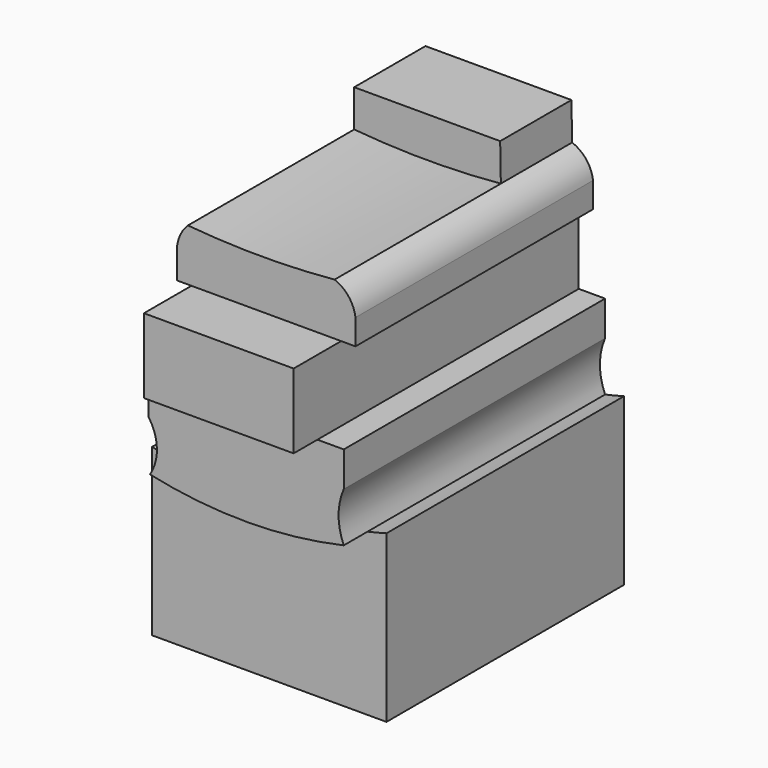
from build123d import *

# Parameters (mm, degrees)
F1_DEPTH = 25.4
F2_DEPTH = 27.94
F0_W     = 12.805208
F0_H     = 6.38972
F3_DEPTH = 30.48
F4_DEPTH = 25.4
F5_DEPTH = 7.62


with BuildPart() as f1:
    # F0 (on Front) → F1 (new body)
    with BuildSketch(Plane.XZ):
        with BuildLine():
            Line((-20.041954, 0), (0, 0))
            Line((0, 0), (0, 14.202959))
            ThreePointArc((0, 14.202959), (-0.809395, 13.992635), (-1.623196, 13.800062))
            ThreePointArc((-1.623196, 13.800062), (-9.906257, 12.866678), (-18.194769, 13.750344))
            ThreePointArc((-18.194769, 13.750344), (-19.121176, 13.965165), (-20.041954, 14.202959))
            Line((-20.041954, 14.202959), (-20.041954, 0))
        make_face()
    extrude(amount=F1_DEPTH)

    # F0 (on Front) → F2 (join)
    with BuildSketch(Plane.XZ):
        with BuildLine():
            ThreePointArc((-18.194769, 13.750344), (-9.906257, 12.866678), (-1.623196, 13.800062))
            ThreePointArc((-1.623196, 13.800062), (-2.065342, 15.917783), (-1.623196, 18.035505))
            Line((-1.623196, 18.035505), (-1.623196, 21.024244))
            Line((-1.623196, 21.024244), (-3.877633, 21.024244))
            Line((-3.877633, 21.024244), (-16.682841, 21.024244))
            Line((-16.682841, 21.024244), (-18.318918, 21.024244))
            Line((-18.318918, 21.024244), (-18.318918, 18.035505))
            ThreePointArc((-18.318918, 18.035505), (-17.605755, 15.911787), (-18.194769, 13.750344))
        make_face()
    extrude(amount=F2_DEPTH)

    # F0 (on Front) → F3 (join)
    with BuildSketch(Plane.XZ):
        with Locations((-10.280237, 24.219104)):
            Rectangle(F0_W, F0_H)
    extrude(amount=F3_DEPTH)

    # F0 (on Front) → F4 (join)
    with BuildSketch(Plane.XZ):
        with BuildLine():
            Line((-16.682841, 27.413964), (-3.877633, 27.413964))
            Line((-3.877633, 27.413964), (-2.653796, 27.413964))
            Line((-2.653796, 27.413964), (-2.653796, 29.587325))
            ThreePointArc((-2.653796, 29.587325), (-3.230513, 30.973826), (-4.442622, 31.860266))
            ThreePointArc((-4.442622, 31.860266), (-10.714561, 31.576369), (-16.986499, 31.860266))
            ThreePointArc((-16.986499, 31.860266), (-17.681629, 30.842499), (-17.938741, 29.637115))
            Line((-17.938741, 29.637115), (-17.938741, 27.413964))
            Line((-17.938741, 27.413964), (-16.682841, 27.413964))
        make_face()
    extrude(amount=F4_DEPTH)

    # F0 (on Front) → F5 (join)
    with BuildSketch(Plane.XZ):
        with BuildLine():
            ThreePointArc((-16.986499, 31.860266), (-10.714561, 31.576369), (-4.442622, 31.860266))
            Line((-4.442622, 31.860266), (-4.501514, 35.040405))
            Line((-4.501514, 35.040405), (-16.986499, 35.040405))
            Line((-16.986499, 35.040405), (-16.986499, 34.039252))
            Line((-16.986499, 34.039252), (-16.986499, 31.860266))
        make_face()
    extrude(amount=F5_DEPTH)


solid = f1.part
